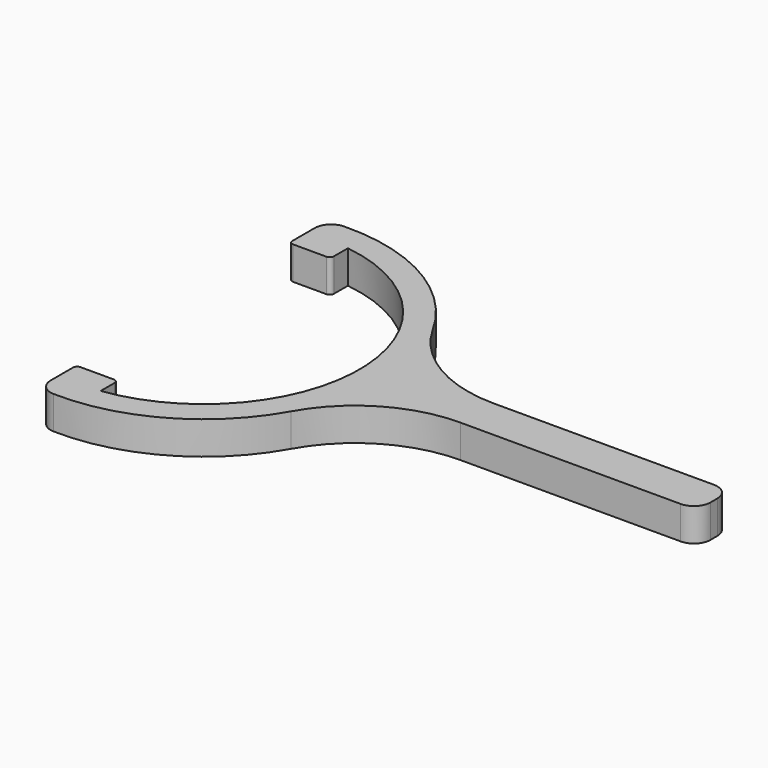
from build123d import *

# Parameters (mm, degrees)
F0_R     = 18.25
F1_DEPTH = 11
F3_DEPTH = 6.35
F4_R     = 3.175
F5_R     = 0.79375


with BuildPart() as f1:
    # F0 (on Top) → F1 (new body)
    with BuildSketch(Plane.XY):
        with BuildLine():
            Line((-24.7792251695, -4), (-28.6218448043, -4))
            ThreePointArc((-28.6218448043, -4), (-20.4353859763, -20.4353859763), (-4, -28.6218448043))
            Line((-4, -28.6218448043), (-4, -24.7792251695))
            ThreePointArc((-4, -24.7792251695), (0, -25.1), (4, -24.7792251695))
            Line((4, -24.7792251695), (4, -28.6218448043))
            ThreePointArc((4, -28.6218448043), (20.4353859763, -20.4353859763), (28.6218448043, -4))
            Line((28.6218448043, -4), (24.7792251695, -4))
            ThreePointArc((24.7792251695, -4), (25.1, 0), (24.7792251695, 4))
            Line((24.7792251695, 4), (28.6218448043, 4))
            ThreePointArc((28.6218448043, 4), (20.4353859763, 20.4353859763), (4, 28.6218448043))
            Line((4, 28.6218448043), (4, 24.7792251695))
            ThreePointArc((4, 24.7792251695), (0, 25.1), (-4, 24.7792251695))
            Line((-4, 24.7792251695), (-4, 28.6218448043))
            ThreePointArc((-4, 28.6218448043), (-20.4353859763, 20.4353859763), (-28.6218448043, 4))
            Line((-28.6218448043, 4), (-24.7792251695, 4))
            ThreePointArc((-24.7792251695, 4), (-25.1, 0), (-24.7792251695, -4))
        make_face()
        Circle(F0_R, mode=Mode.SUBTRACT)
    extrude(amount=F1_DEPTH)


with BuildPart() as f3:
    # F2 (on face) → F3 (new body)
    with BuildSketch(Plane.XY.offset(11)):
        with BuildLine():
            Line((-4, -28.6218448043), (-4, -34.6951815819))
            ThreePointArc((-4, -34.6951815819), (15.925151873, -31.0828757167), (30.4965472195, -17.0210526316))
            ThreePointArc((30.4965472195, -17.0210526316), (39.8163298639, -7.4958307261), (52.6758542883, -4))
            Line((52.6758542883, -4), (98.1951815819, -4))
            Line((98.1951815819, -4), (98.1951815819, 4))
            Line((98.1951815819, 4), (52.6758542883, 4))
            ThreePointArc((52.6758542883, 4), (39.8163298639, 7.4958307261), (30.4965472195, 17.0210526316))
            ThreePointArc((30.4965472195, 17.0210526316), (15.925151873, 31.0828757167), (-4, 34.6951815819))
            Line((-4, 34.6951815819), (-4, 28.6218448043))
            Line((-4, 28.6218448043), (-4, 25.5670565819))
            Line((-4, 25.5670565819), (4, 25.5670565819))
            Line((4, 25.5670565819), (4, 28.6218448043))
            Line((4, 28.6218448043), (4, 29.7321374946))
            ThreePointArc((4, 29.7321374946), (30, 0), (4, -29.7321374946))
            Line((4, -29.7321374946), (4, -28.6218448043))
            Line((4, -28.6218448043), (4, -25.5670565819))
            Line((4, -25.5670565819), (-4, -25.5670565819))
            Line((-4, -25.5670565819), (-4, -28.6218448043))
        make_face()
    extrude(amount=F3_DEPTH)

    # F4
    f4_edges = [f3.edges().sort_by_distance(p)[0] for p in [
        (-4, -34.695182, 14.175),
        (-4, 34.695182, 14.175),
        (98.195182, -4, 14.175),
        (98.195182, 4, 14.175),
    ]]
    fillet(f4_edges, radius=F4_R)

    # F5
    f5_edges = [f3.edges().sort_by_distance(p)[0] for p in [
        (-4, -25.567057, 14.175),
        (4, -25.567057, 14.175),
        (-4, 25.567057, 14.175),
        (4, 25.567057, 14.175),
    ]]
    fillet(f5_edges, radius=F5_R)


solid = f3.part
